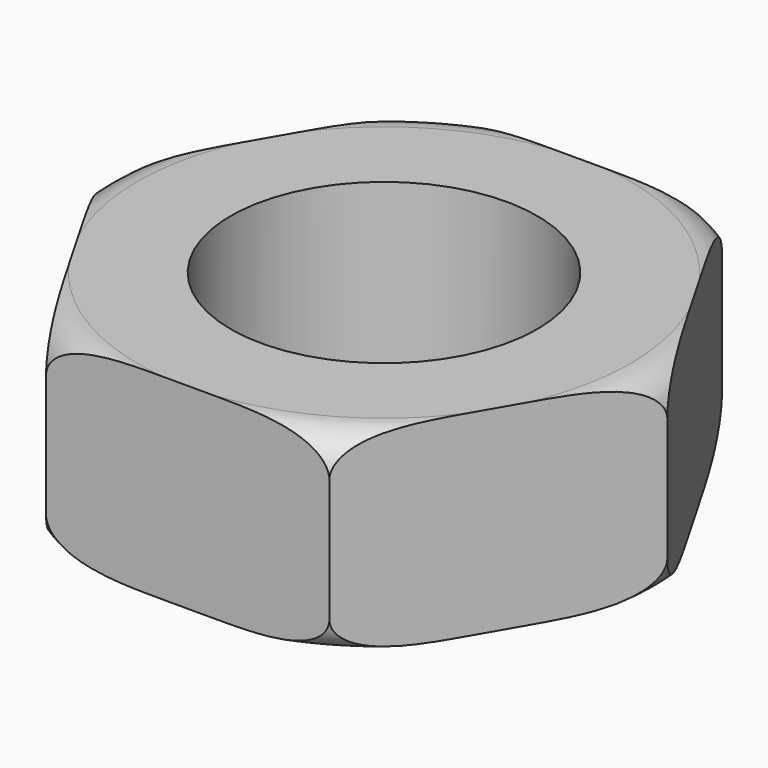
from build123d import *

# Parameters (mm, degrees)
F0_R     = 4.6188021535
F0_R_2   = 2.5
F1_DEPTH = 1.6
F2_R     = 0.6
F3_R     = 7.5
F4_DEPTH = 3.2010001


with BuildPart() as f1:
    # F0 (on Top) → F1 (new body, symmetric)
    with BuildSketch(Plane.XY):
        Circle(F0_R)
        Circle(F0_R_2, mode=Mode.SUBTRACT)
    extrude(amount=F1_DEPTH, both=True)

    # F2
    f2_edges = [f1.edges().sort_by_distance(p)[0] for p in [
        (-4.618802, 0, 1.6),
        (-4.618802, 0, -1.6),
    ]]
    fillet(f2_edges, radius=F2_R)

    # F3 (on face) → F4 (cut, through all)
    with BuildSketch(Plane.XY.offset(1.6)):
        Circle(F3_R)
        Polygon((-2.3094010768, -4), (-4.6188021535, 0), (-2.3094010768, 4), (2.3094010768, 4), (4.6188021535, 0), (2.3094010768, -4), align=None, mode=Mode.SUBTRACT)
    extrude(amount=-F4_DEPTH, mode=Mode.SUBTRACT)


solid = f1.part
